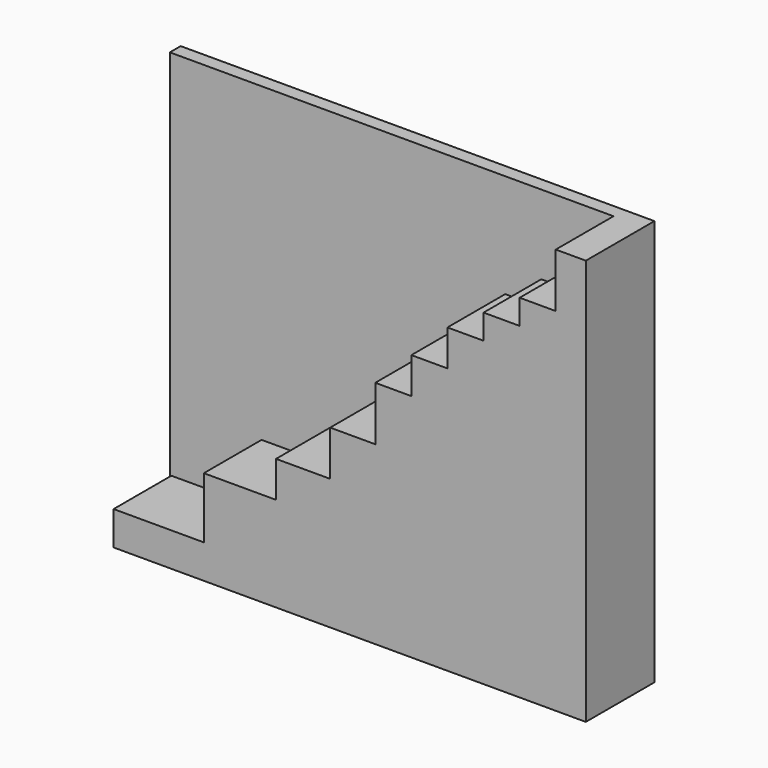
from build123d import *

# Parameters (mm, degrees)
F0_W     = 105
F0_H     = 90
F1_DEPTH = 3
F3_DEPTH = 16


with BuildPart() as f1:
    # F0 (on Front) → F1 (new body)
    with BuildSketch(Plane.XZ):
        with Locations((-52.5, 45)):
            Rectangle(F0_W, F0_H)
    extrude(amount=F1_DEPTH)

    # F2 (on face) → F3 (join)
    with BuildSketch(Plane.XZ.offset(3)):
        Polygon((0, 0), (0, 90), (-6.666667, 90), (-6.666667, 78), (-14.666667, 78), (-14.666667, 72.5), (-22.666667, 72.5), (-22.666667, 67), (-30.666667, 67), (-30.666667, 59), (-38.666667, 59), (-38.666667, 51), (-46.666667, 51), (-46.666667, 39), (-56.666667, 39), (-56.666667, 29), (-68.666667, 29), (-68.666667, 21), (-84.666667, 21), (-84.666667, 7.5), (-104.666667, 7.5), (-104.666667, 0), align=None)
    extrude(amount=F3_DEPTH)


solid = f1.part
